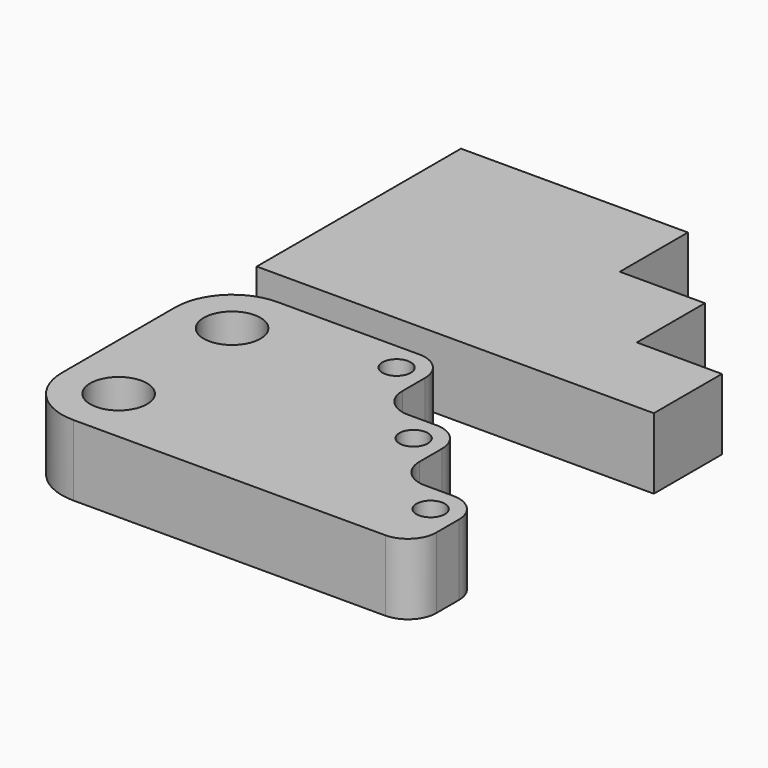
from build123d import *

# Parameters (mm, degrees)
F0_R     = 10
F0_R_2   = 5
F1_DEPTH = 25


with BuildPart() as f1:
    # F0 (on Top) → F1 (new body)
    with BuildSketch(Plane.XY):
        with BuildLine():
            ThreePointArc((-72.437731, -49.361743), (-66.579867, -63.503879), (-52.437731, -69.361743))
            Line((-52.437731, -69.361743), (57.562269, -69.361743))
            ThreePointArc((57.562269, -69.361743), (64.633336, -66.432811), (67.562269, -59.361743))
            Line((67.562269, -59.361743), (67.562269, -49.361743))
            ThreePointArc((67.562269, -49.361743), (64.633336, -42.290676), (57.562269, -39.361743))
            Line((57.562269, -39.361743), (47.562269, -39.361743))
            ThreePointArc((47.562269, -39.361743), (40.491201, -36.432811), (37.562269, -29.361743))
            Line((37.562269, -29.361743), (37.562269, -19.361743))
            ThreePointArc((37.562269, -19.361743), (34.633336, -12.290676), (27.562269, -9.361743))
            Line((27.562269, -9.361743), (17.562269, -9.361743))
            ThreePointArc((17.562269, -9.361743), (10.491201, -6.432811), (7.562269, 0.638257))
            Line((7.562269, 0.638257), (7.562269, 10.638257))
            ThreePointArc((7.562269, 10.638257), (4.633336, 17.709324), (-2.437731, 20.638257))
            Line((-2.437731, 20.638257), (-52.437731, 20.638257))
            ThreePointArc((-52.437731, 20.638257), (-66.579867, 14.780392), (-72.437731, 0.638257))
            Line((-72.437731, 0.638257), (-72.437731, -49.361743))
        make_face()
        with Locations((-52.437731, -49.361743)):
            Circle(F0_R, mode=Mode.SUBTRACT)
        with Locations((-52.437731, 0.638257)):
            Circle(F0_R, mode=Mode.SUBTRACT)
        with Locations((-2.437731, 10.638257)):
            Circle(F0_R_2, mode=Mode.SUBTRACT)
        with Locations((57.562269, -49.361743)):
            Circle(F0_R_2, mode=Mode.SUBTRACT)
        with Locations((27.562269, -19.361743)):
            Circle(F0_R_2, mode=Mode.SUBTRACT)
        Polygon((-70.129156, 123.611625), (-70.129156, 33.611625), (69.870844, 33.611625), (69.870844, 63.611625), (39.870844, 63.611625), (39.870844, 93.611625), (9.870844, 93.611625), (9.870844, 123.611625), align=None)
    extrude(amount=F1_DEPTH)


solid = f1.part
